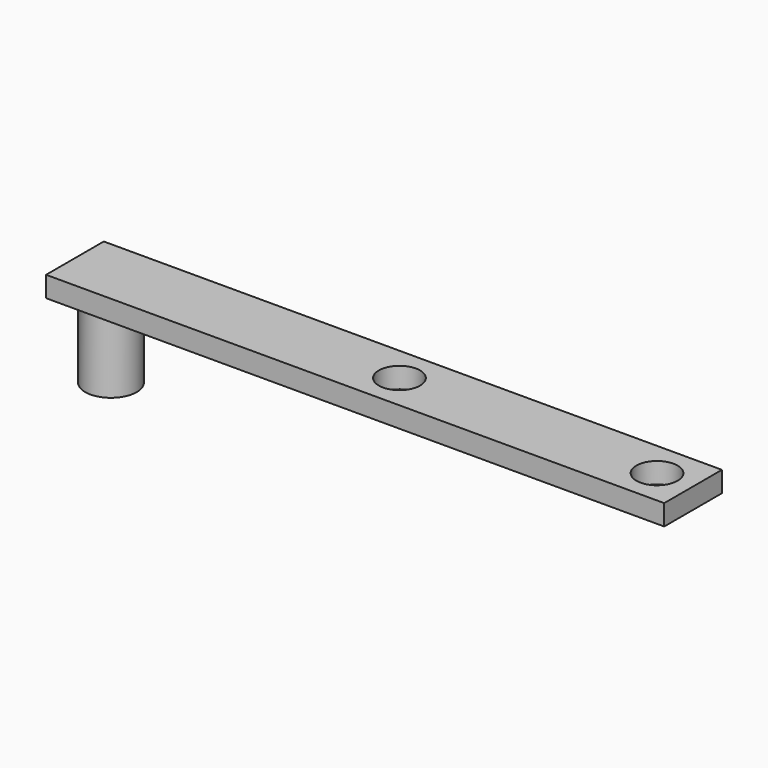
from build123d import *

# Parameters (mm, degrees)
F0_W     = 120
F0_H     = 14
F0_R     = 5
F0_R_2   = 4
F1_DEPTH = 4
F2_DEPTH = 15


with BuildPart() as f1:
    # F0 (on Top) → F1 (new body)
    with BuildSketch(Plane.XY):
        Rectangle(F0_W, F0_H)
        with Locations((-53, 0)):
            Circle(F0_R, mode=Mode.SUBTRACT)
        with Locations((3, 0)):
            Circle(F0_R_2, mode=Mode.SUBTRACT)
        with Locations((53, 0)):
            Circle(F0_R_2, mode=Mode.SUBTRACT)
        with Locations((-53, 0)):
            Circle(F0_R)
    extrude(amount=F1_DEPTH)

    # F0 (on Top) → F2 (join)
    with BuildSketch(Plane.XY):
        with Locations((-53, 0)):
            Circle(F0_R)
    extrude(amount=-F2_DEPTH)


solid = f1.part
